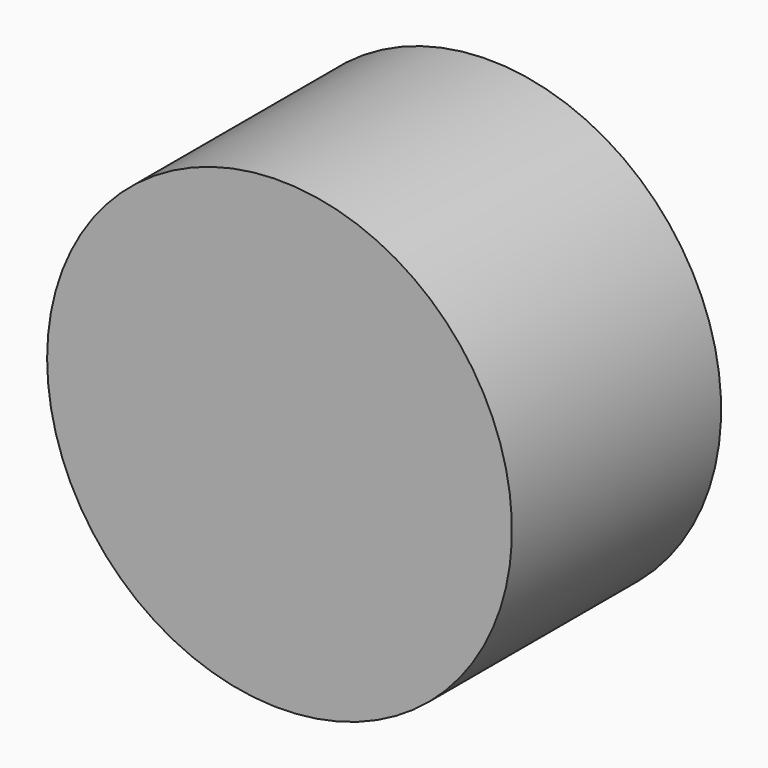
from build123d import *

# Parameters (mm, degrees)
F2_R     = 6.125
F3_DEPTH = 14.7


with BuildPart() as f1:
    # F0 (on Top) → F1 (revolve)
    with BuildSketch(Plane.XY):
        with BuildLine():
            Line((-25.4, 0), (0, 0))
            Line((0, 0), (0, 1.025))
            ThreePointArc((0, 1.025), (-7.852976, 6.272191), (-6.010408, 15.535408))
            Line((-6.010408, 15.535408), (-19.05, 28.575))
            Line((-19.05, 28.575), (-25.4, 28.575))
            Line((-25.4, 28.575), (-25.4, 0))
        make_face()
    revolve(axis=Axis((0, 4.7625, 0), (0, -1, 0)))

    # F2 (on face) → F3 (cut)
    with BuildSketch(Plane(origin=(0, 28.575, 0), x_dir=(-1, 0, 0), z_dir=(0, 1, 0))):
        Circle(F2_R)
    extrude(amount=-F3_DEPTH, mode=Mode.SUBTRACT)


solid = f1.part
